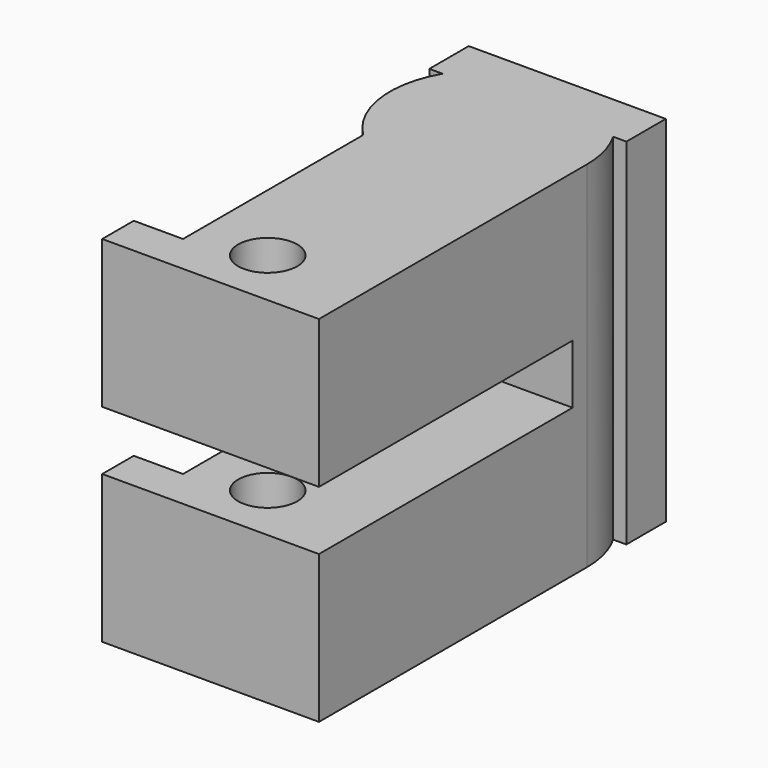
from build123d import *

# Parameters (mm, degrees)
F0_R     = 1.5
F1_DEPTH = 18
F2_W     = 16.085666
F2_H     = 3
F3_DEPTH = 11


with BuildPart() as f1:
    # F0 (on Top) → F1 (new body)
    with BuildSketch(Plane.XY):
        with BuildLine():
            Line((4.330127, -1.25), (5, -1.25))
            Line((5, -1.25), (5, 1.25))
            Line((5, 1.25), (-5, 1.25))
            Line((-5, 1.25), (-5, -1.25))
            Line((-5, -1.25), (-4.330127, -1.25))
            ThreePointArc((-4.330127, -1.25), (-4.953899, -4.42741), (-3.5, -7.320714))
            Line((-3.5, -7.320714), (-3.5, -18.75))
            Line((-3.5, -18.75), (-6, -18.75))
            Line((-6, -18.75), (-6, -20.75058))
            Line((-6, -20.75058), (5, -20.75058))
            Line((5, -20.75058), (5, -18.75))
            Line((5, -18.75), (5, -3.75))
            ThreePointArc((5, -3.75), (4.829629, -2.455905), (4.330127, -1.25))
        make_face()
        with Locations((0, -17.75058)):
            Circle(F0_R, mode=Mode.SUBTRACT)
    extrude(amount=F1_DEPTH)

    # F2 (on face) → F3 (cut)
    with BuildSketch(Plane.YZ.offset(5)):
        with Locations((-12.707747, 9)):
            Rectangle(F2_W, F2_H)
    extrude(amount=-F3_DEPTH, mode=Mode.SUBTRACT)


solid = f1.part
